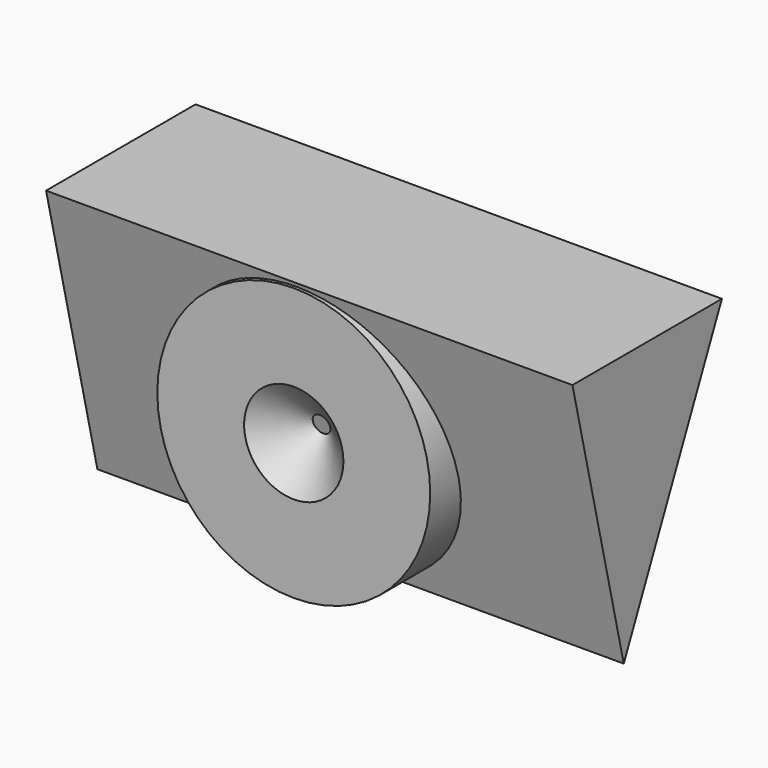
from build123d import *

# Parameters (mm, degrees)
F5_DEPTH = 427.669525


with BuildPart() as f2:
    # F0 (on Top) → F2 (revolve)
    with BuildSketch(Plane.XY):
        Polygon((46.470374, 46.055496), (-0.622407, 0.829846), (39.209366, -33.193126), (109.744787, -33.193126), (109.744787, 46.055496), align=None)
    revolve(axis=Axis((-1.124948, 46.980426, 0), (0, 1, 0)))

    # F4 (on offset) → F5 (join)
    with BuildSketch(Plane.YZ.offset(223.903775)):
        Polygon((120.357007, 113.951385), (-31.448789, 113.951385), (20.660924, -106.508024), align=None)
    extrude(amount=-F5_DEPTH)


solid = f2.part
